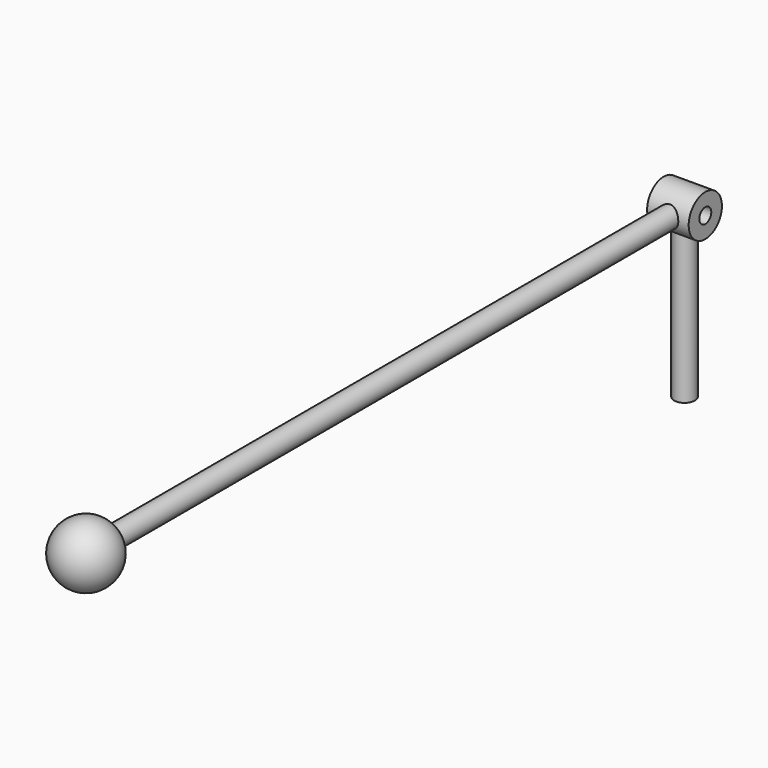
from build123d import *

# Parameters (mm, degrees)
F0_R     = 3.175
F1_DEPTH = 228.6
F2_R     = 3.175
F3_DEPTH = 50.8
F4_R     = 6.35
F5_DEPTH = 6.35
F8_R     = 2.286
F9_DEPTH = 63.5


with BuildPart() as f1:
    # F0 (on Front) → F1 (new body)
    with BuildSketch(Plane.XZ):
        Circle(F0_R)
    extrude(amount=F1_DEPTH)

    # F2 (on Top) → F3 (join)
    with BuildSketch(Plane.XY):
        Circle(F2_R)
    extrude(amount=-F3_DEPTH)

    # F4 (on Right) → F5 (join, symmetric)
    with BuildSketch(Plane.YZ):
        Circle(F4_R)
    extrude(amount=F5_DEPTH, both=True)

    # F6 (on Right) → F7 (revolve)
    with BuildSketch(Plane.YZ):
        with BuildLine():
            Line((-228.6, 9.525), (-228.6, -9.525))
            ThreePointArc((-228.6, -9.525), (-219.075, 0), (-228.6, 9.525))
        make_face()
    revolve(axis=Axis((0, -228.6, 0), (0, 0, -1)))

    # F8 (on face) → F9 (cut, symmetric)
    with BuildSketch(Plane.YZ.offset(6.35)):
        Circle(F8_R)
    extrude(amount=F9_DEPTH, both=True, mode=Mode.SUBTRACT)


solid = f1.part
